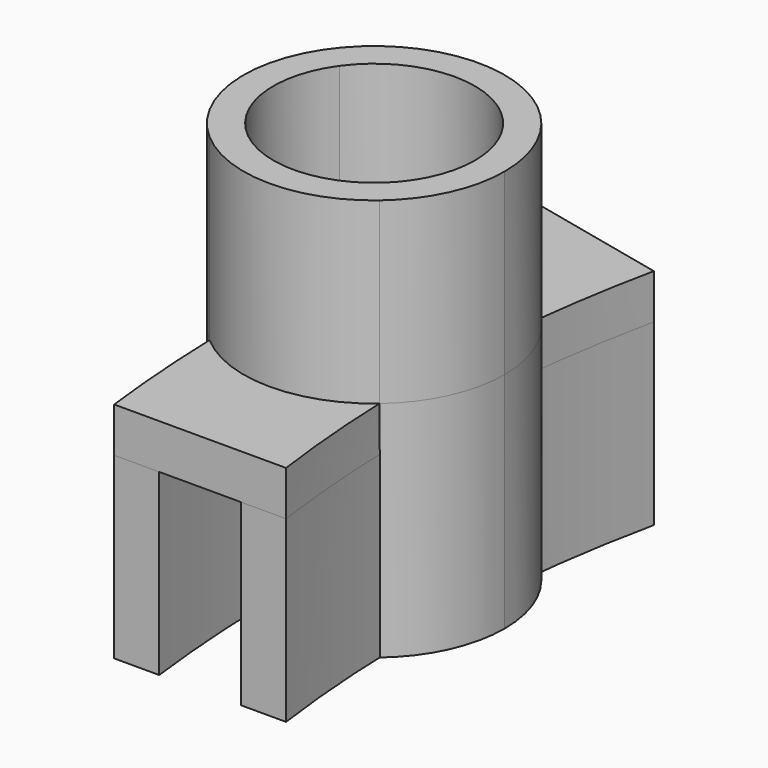
from build123d import *

# Parameters (mm, degrees)
F1_DEPTH = 19.05
F3_DEPTH = 4.7625
F5_DEPTH = 19.05
F6_DEPTH = 23.8125
F8_DEPTH = 23.8125


with BuildPart() as f1:
    # F0 (on Top) → F1 (new body)
    with BuildSketch(Plane.XY):
        with BuildLine():
            Line((-132.7347599463, 28.3629287724), (-137.3799231344, 29.4151408064))
            ThreePointArc((-137.3799231344, 29.4151408064), (-140.3830231556, 5.5767910807), (-139.2803849972, -18.4246613019))
            Line((-139.2803849972, -18.4246613019), (-134.4749199013, -18.4246613019))
            ThreePointArc((-134.4749199013, -18.4246613019), (-135.6374686335, 5.0447328221), (-132.7347599463, 28.3629287724))
        make_face()
    extrude(amount=F1_DEPTH)


with BuildPart() as f1b:
    # F0 (on Top) → F1, piece 2 (new body)
    with BuildSketch(Plane.XY):
        with BuildLine():
            ThreePointArc((-147.9872095519, -18.4246613019), (-148.9862311206, 6.5410451413), (-145.8030975801, 31.3231395476))
            Line((-145.8030975801, 31.3231395476), (-150.4482038917, 32.3753386981))
            ThreePointArc((-150.4482038917, 32.3753386981), (-153.7296449055, 7.0725446114), (-152.7853280455, -18.4246613019))
            Line((-152.7853280455, -18.4246613019), (-147.9872095519, -18.4246613019))
        make_face()
    extrude(amount=F1_DEPTH)


with BuildPart() as f3:
    # F2 (on face) → F3 (new body)
    with BuildSketch(Plane.XY.offset(19.05)):
        with BuildLine():
            Line((-145.8030975801, 31.3231395476), (-150.4482038917, 32.3753386981))
            ThreePointArc((-150.4482038917, 32.3753386981), (-153.7296449055, 7.0725446114), (-152.7853280455, -18.4246613019))
            Line((-152.7853280455, -18.4246613019), (-147.9872095519, -18.4246613019))
            ThreePointArc((-147.9872095519, -18.4246613019), (-148.9862311206, 6.5410451413), (-145.8030975801, 31.3231395476))
        make_face()
        with BuildLine():
            Line((-132.7347599463, 28.3629287724), (-145.8030975801, 31.3231395476))
            ThreePointArc((-145.8030975801, 31.3231395476), (-148.9862311206, 6.5410451413), (-147.9872095519, -18.4246613019))
            Line((-147.9872095519, -18.4246613019), (-134.4749199013, -18.4246613019))
            ThreePointArc((-134.4749199013, -18.4246613019), (-135.6374686335, 5.0447328221), (-132.7347599463, 28.3629287724))
        make_face()
    extrude(amount=F3_DEPTH)

    # F4 (on face) → F5 (join)
    with BuildSketch(Plane.XY.offset(23.8125)):
        with BuildLine():
            ThreePointArc((-153.891279398, 0.5465668514), (-155.4056601533, 6.507627891), (-153.3982149253, 12.3212121078))
            ThreePointArc((-153.3982149253, 12.3212121078), (-153.1795100202, 14.7939960805), (-152.9209463743, 17.2629305171))
            ThreePointArc((-152.9209463743, 17.2629305171), (-158.5778800893, 6.6404649248), (-153.8288271866, -4.4177524199))
            ThreePointArc((-153.8288271866, -4.4177524199), (-153.8800738093, -1.9358446467), (-153.891279398, 0.5465668514))
        make_face()
        with BuildLine():
            ThreePointArc((-153.3982149253, 12.3212121078), (-144.0254314137, 16.7699394438), (-135.2677715789, 11.2072386715))
            ThreePointArc((-135.2677715789, 11.2072386715), (-135.0554120904, 13.5280409391), (-134.8032373317, 15.8448550467))
            ThreePointArc((-134.8032373317, 15.8448550467), (-143.5984120239, 19.9227363481), (-152.9209463743, 17.2629305171))
            ThreePointArc((-152.9209463743, 17.2629305171), (-153.1795100202, 14.7939960805), (-153.3982149253, 12.3212121078))
        make_face()
        with BuildLine():
            ThreePointArc((-135.2677715789, 11.2072386715), (-134.2861871257, 8.7156665183), (-133.9520567695, 6.0586387167))
            ThreePointArc((-133.9520567695, 6.0586387167), (-134.406457061, 2.9689277543), (-135.7311768984, 0.140869974))
            ThreePointArc((-135.7311768984, 0.140869974), (-135.7135882934, -2.1895613935), (-135.6559903833, -4.5193472632))
            ThreePointArc((-135.6559903833, -4.5193472632), (-132.0555602103, 0.2341692001), (-130.7770567695, 6.0586387167))
            ThreePointArc((-130.7770567695, 6.0586387167), (-131.8229307251, 11.3496726416), (-134.8032373317, 15.8448550467))
            ThreePointArc((-134.8032373317, 15.8448550467), (-135.0554120904, 13.5280409391), (-135.2677715789, 11.2072386715))
        make_face()
        with BuildLine():
            ThreePointArc((-135.6559903833, -4.5193472632), (-135.7135882934, -2.1895613935), (-135.7311768984, 0.140869974))
            ThreePointArc((-135.7311768984, 0.140869974), (-144.9232387881, -4.6701843678), (-153.891279398, 0.5465668514))
            ThreePointArc((-153.891279398, 0.5465668514), (-153.8800738093, -1.9358446467), (-153.8288271866, -4.4177524199))
            ThreePointArc((-153.8288271866, -4.4177524199), (-144.7612995362, -7.8476439754), (-135.6559903833, -4.5193472632))
        make_face()
    extrude(amount=F5_DEPTH)


with BuildPart() as f6:
    # F4 (on face) → F6 (new body, through all)
    with BuildSketch(Plane.XY.offset(23.8125)):
        with BuildLine():
            ThreePointArc((-153.891279398, 0.5465668514), (-153.7575002986, 6.4386110288), (-153.3982149253, 12.3212121078))
            ThreePointArc((-153.3982149253, 12.3212121078), (-155.4056601533, 6.507627891), (-153.891279398, 0.5465668514))
        make_face()
        with BuildLine():
            ThreePointArc((-153.891279398, 0.5465668514), (-155.4056601533, 6.507627891), (-153.3982149253, 12.3212121078))
            ThreePointArc((-153.3982149253, 12.3212121078), (-153.1795100202, 14.7939960805), (-152.9209463743, 17.2629305171))
            ThreePointArc((-152.9209463743, 17.2629305171), (-158.5778800893, 6.6404649248), (-153.8288271866, -4.4177524199))
            ThreePointArc((-153.8288271866, -4.4177524199), (-153.8800738093, -1.9358446467), (-153.891279398, 0.5465668514))
        make_face()
    extrude(amount=-F6_DEPTH)


with BuildPart() as f8:
    # F7 (on face) → F8 (new body, through all)
    with BuildSketch(Plane.XY):
        with BuildLine():
            ThreePointArc((-130.7770567695, 6.0586387167), (-131.8229307251, 11.3496726416), (-134.8032373317, 15.8448550467))
            ThreePointArc((-134.8032373317, 15.8448550467), (-135.6124022646, 5.6787831954), (-135.6559903833, -4.5193472632))
            ThreePointArc((-135.6559903833, -4.5193472632), (-132.0555602103, 0.2341692001), (-130.7770567695, 6.0586387167))
        make_face()
    extrude(amount=F8_DEPTH)


solid = Compound([f1.part, f1b.part, f3.part, f6.part, f8.part])
